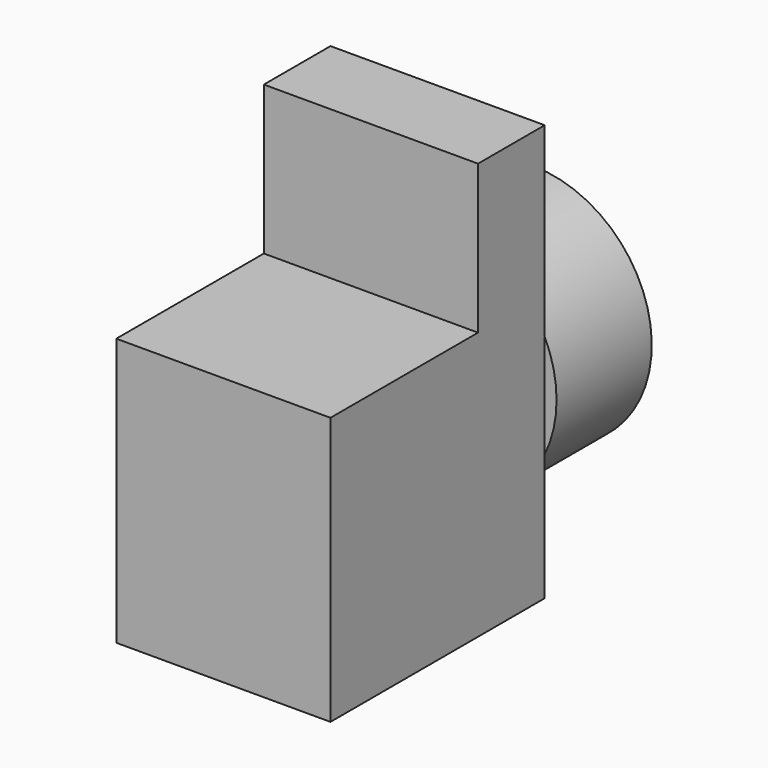
from build123d import *

# Parameters (mm, degrees)
BOX048_W                  = 45
BOX048_H                  = 36
BOX048_DEPTH              = 45
BOX049_W                  = 14
BOX049_H                  = 36
BOX049_DEPTH              = 70
CYLINDER021_R             = 20
CYLINDER021_DEPTH         = 20
FUSION014_PLACEMENT_ANGLE = 90


with BuildPart() as cube043:
    # Box048 → Box048 (new body)
    with BuildSketch(Plane.XY):
        with Locations((22.5, 18)):
            Rectangle(BOX048_W, BOX048_H)
    extrude(amount=BOX048_DEPTH)


with BuildPart() as cube044:
    # Box049 → Box049 (new body)
    with BuildSketch(Plane.XY):
        with Locations((7, 18)):
            Rectangle(BOX049_W, BOX049_H)
    extrude(amount=BOX049_DEPTH)


with BuildPart() as block:
    # Cylinder021 → Cylinder021 (new body)
    with BuildSketch(Plane(origin=(0, 18, 30), x_dir=(0, 0, 1), z_dir=(-1, 0, 0))):
        Circle(CYLINDER021_R)
    extrude(amount=CYLINDER021_DEPTH)

    # Fusion014: union Cube043, Cube044
    add(cube043.part)
    add(cube044.part)


with BuildPart() as block_1:
    # Fusion014 placement: moved
    add(block.part.moved(Location((155, -75, -70))).rotate(Axis((155, -75, -70), (0, 0, -1)), FUSION014_PLACEMENT_ANGLE))


solid = block_1.part
